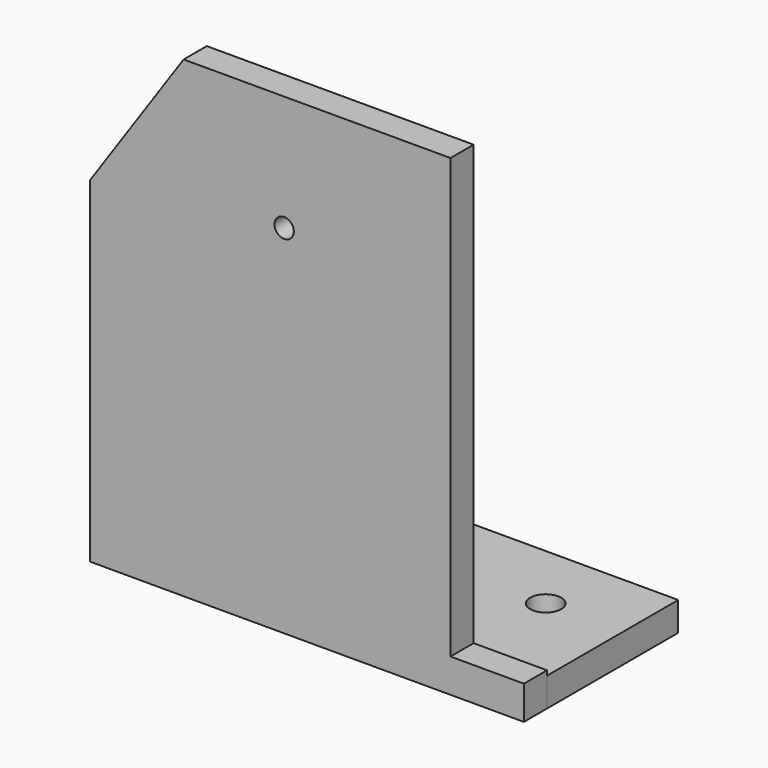
from build123d import *

# Parameters (mm, degrees)
F0_R     = 1
F0_W     = 1
F0_H     = 6
F1_DEPTH = 3
F2_W     = 45
F2_H     = 17
F2_R     = 1.698824
F2_R_2   = 1.610418
F3_DEPTH = 3


with BuildPart() as f1:
    # F0 (on Front) → F1 (new body)
    with BuildSketch(Plane.XZ):
        Polygon((-64.45872, -27.312139), (-64.45872, -62.091763), (-19.45872, -62.091763), (-19.45872, -58.599558), (-27.067482, -58.599558), (-27.067482, -13.103288), (-54.728993, -13.103288), align=None)
        with Locations((-54.308786, -25.101645)):
            Circle(F0_R, mode=Mode.SUBTRACT)
        Polygon((-51.308786, -22.091763), (-51.308786, -18.091763), (-27.308786, -18.091763), (-27.308786, -32.091763), (-51.308786, -32.091763), (-51.308786, -28.091763), (-52.308786, -28.091763), (-52.308786, -22.091763), align=None, mode=Mode.SUBTRACT)
        with Locations((-54.308786, -25.101645)):
            Circle(F0_R)
        with Locations((-51.808786, -25.091763)):
            Rectangle(F0_W, F0_H)
        Polygon((-27.308786, -18.091763), (-51.308786, -18.091763), (-51.308786, -22.091763), (-51.308786, -28.091763), (-51.308786, -32.091763), (-27.308786, -32.091763), align=None)
        with Locations((-44.308786, -25.091763)):
            Circle(F0_R, mode=Mode.SUBTRACT)
    extrude(amount=F1_DEPTH)


with BuildPart() as f3:
    # F2 (on face) → F3 (new body)
    with BuildSketch(Plane(origin=(0, 0, -62.091763), x_dir=(1, 0, 0), z_dir=(0, 0, -1))):
        with Locations((-41.95872, -8.5)):
            Rectangle(F2_W, F2_H)
        with Locations((-56.45872, -9.826623)):
            Circle(F2_R, mode=Mode.SUBTRACT)
        with Locations((-27.45872, -9.826623)):
            Circle(F2_R_2, mode=Mode.SUBTRACT)
    extrude(amount=-F3_DEPTH)


solid = Compound([f1.part, f3.part])
